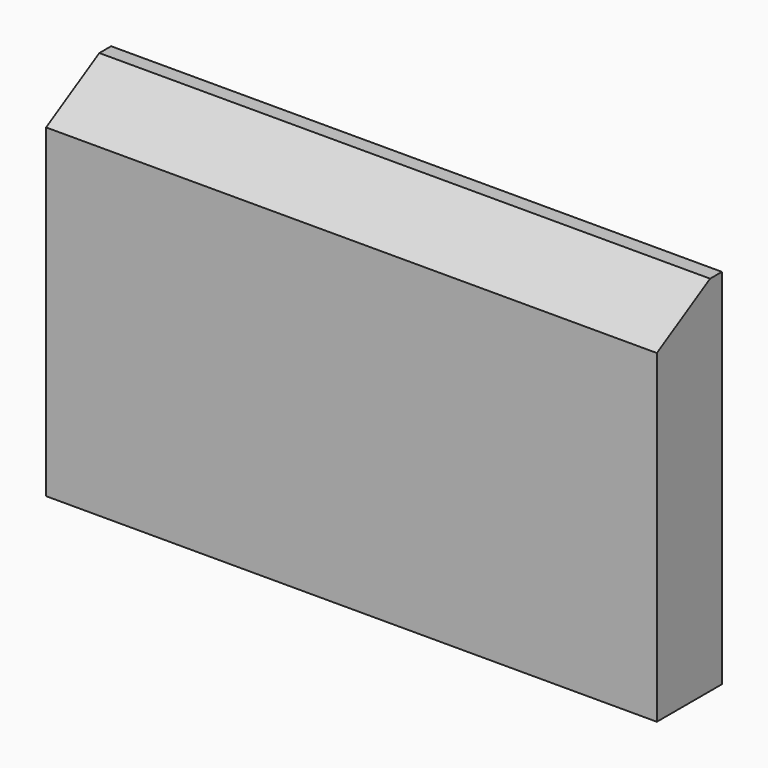
from build123d import *

# Parameters (mm, degrees)
F0_W     = 80.75
F0_H     = 10.75
F1_DEPTH = 48
F2_W     = 75.5
F2_H     = 5.75
F3_DEPTH = 15
F4_SIZE2 = 8.798818
F4_SIZE  = 5.08


with BuildPart() as f1:
    # F0 (on Top) → F1 (new body)
    with BuildSketch(Plane.XY):
        Rectangle(F0_W, F0_H)
    extrude(amount=F1_DEPTH)

    # F2 (on face) → F3 (cut)
    with BuildSketch(Plane(origin=(0, 0, 0), x_dir=(1, 0, 0), z_dir=(0, 0, -1))):
        Rectangle(F2_W, F2_H)
    extrude(amount=-F3_DEPTH, mode=Mode.SUBTRACT)

    # F4
    f4_edges = [f1.edges().sort_by_distance(p)[0] for p in [
        (0, -5.375, 48),
    ]]
    chamfer(f4_edges, length=F4_SIZE, length2=F4_SIZE2)


solid = f1.part
